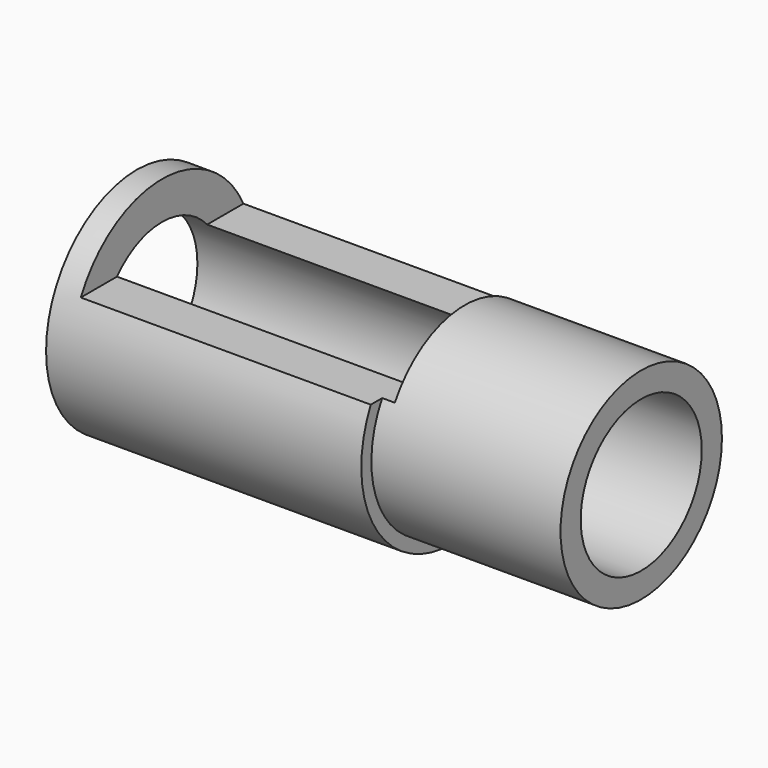
from build123d import *

# Parameters (mm, degrees)
F0_R          = 4
F0_R_2        = 3
F1_DEPTH      = 7.5
F1_DEPTH_BACK = 12.5
F0_R_3        = 4.5
F2_DEPTH      = 12.5
F3_W          = 12
F3_H          = 9.086956
F4_DEPTH      = 25
F4_DEPTH_BACK = 25


with BuildPart() as f1:
    # F0 (on Right) → F1 (new body, two sides)
    with BuildSketch(Plane.YZ) as f1_sk:
        Circle(F0_R)
        Circle(F0_R_2, mode=Mode.SUBTRACT)
    extrude(amount=F1_DEPTH)
    extrude(f1_sk.sketch, amount=-F1_DEPTH_BACK)

    # F0 (on Right) → F2 (join)
    with BuildSketch(Plane.YZ):
        Circle(F0_R_3)
        Circle(F0_R, mode=Mode.SUBTRACT)
    extrude(amount=-F2_DEPTH)

    # F3 (on Front) → F4 (cut, two sides)
    with BuildSketch(Plane.XZ) as f4_sk:
        with Locations((-5.5, 6.543478)):
            Rectangle(F3_W, F3_H)
    extrude(amount=F4_DEPTH, mode=Mode.SUBTRACT)
    extrude(f4_sk.sketch, amount=-F4_DEPTH_BACK, mode=Mode.SUBTRACT)


solid = f1.part
